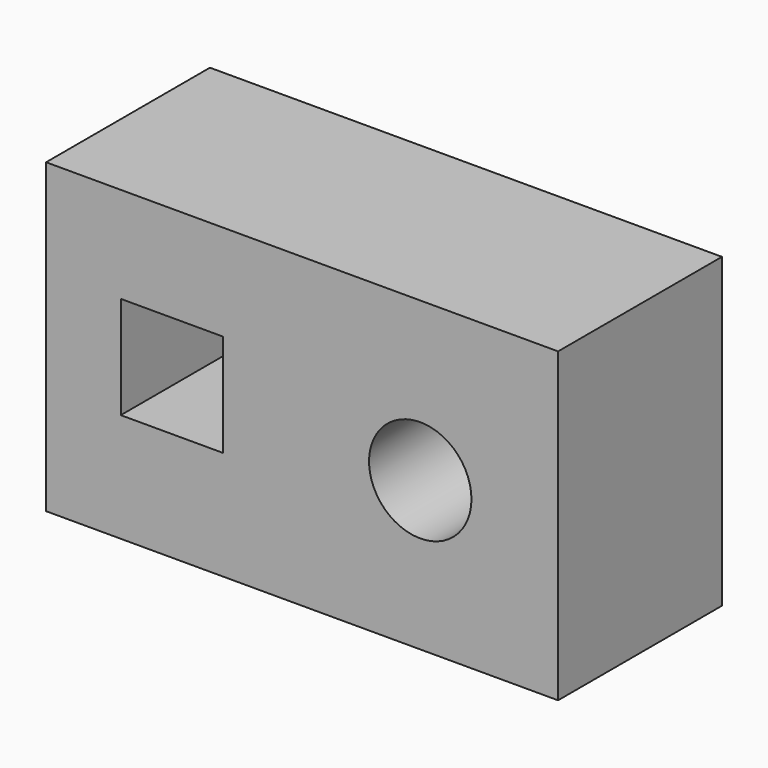
from build123d import *

# Parameters (mm, degrees)
F0_W     = 127
F0_H     = 76.2
F1_DEPTH = 50.8
F2_R     = 12.7
F2_W     = 25.4
F2_H     = 25.4
F3_DEPTH = 50.8


with BuildPart() as f1:
    # F0 (on Front) → F1 (new body)
    with BuildSketch(Plane.XZ):
        with Locations((-4.297936, -6.656349)):
            Rectangle(F0_W, F0_H)
    extrude(amount=F1_DEPTH)

    # F2 (on face) → F3 (cut)
    with BuildSketch(Plane.XZ.offset(50.8)):
        with Locations((25.015062, -7.829141)):
            Circle(F2_R)
        with Locations((-36.569332, -5.058783)):
            Rectangle(F2_W, F2_H)
    extrude(amount=-F3_DEPTH, mode=Mode.SUBTRACT)


solid = f1.part
